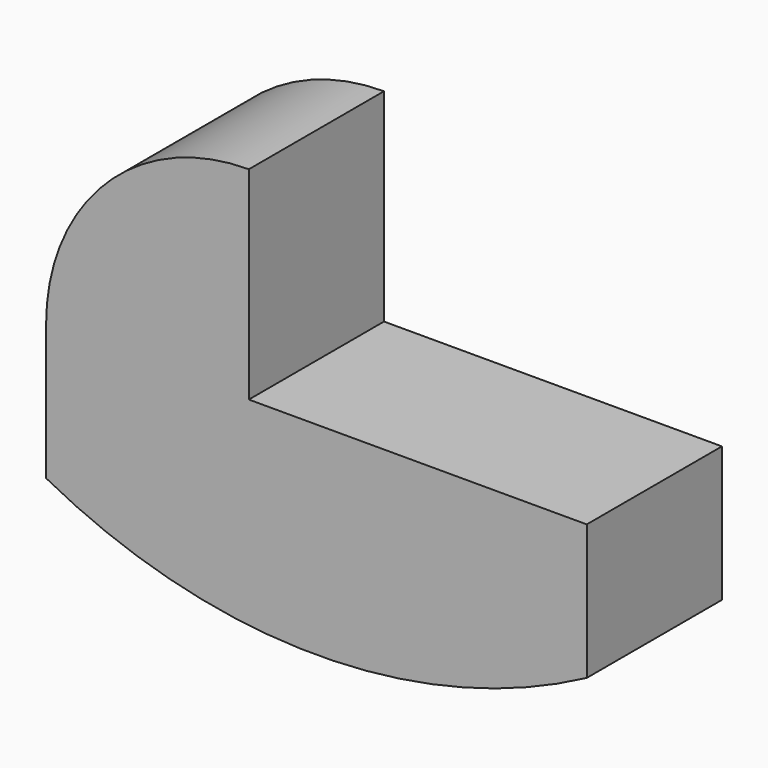
from build123d import *

# Parameters (mm, degrees)
F1_DEPTH = 25


with BuildPart() as f1:
    # F0 (on Front) → F1 (new body)
    with BuildSketch(Plane.XZ):
        with BuildLine():
            Line((0, 20), (-50, 20))
            Line((-50, 20), (-50, 50))
            ThreePointArc((-50, 50), (-71.213203, 41.213203), (-80, 20))
            Line((-80, 20), (-80, 0))
            ThreePointArc((-80, 0), (-40, -10), (0, 0))
            Line((0, 0), (0, 20))
        make_face()
    extrude(amount=F1_DEPTH)


solid = f1.part
